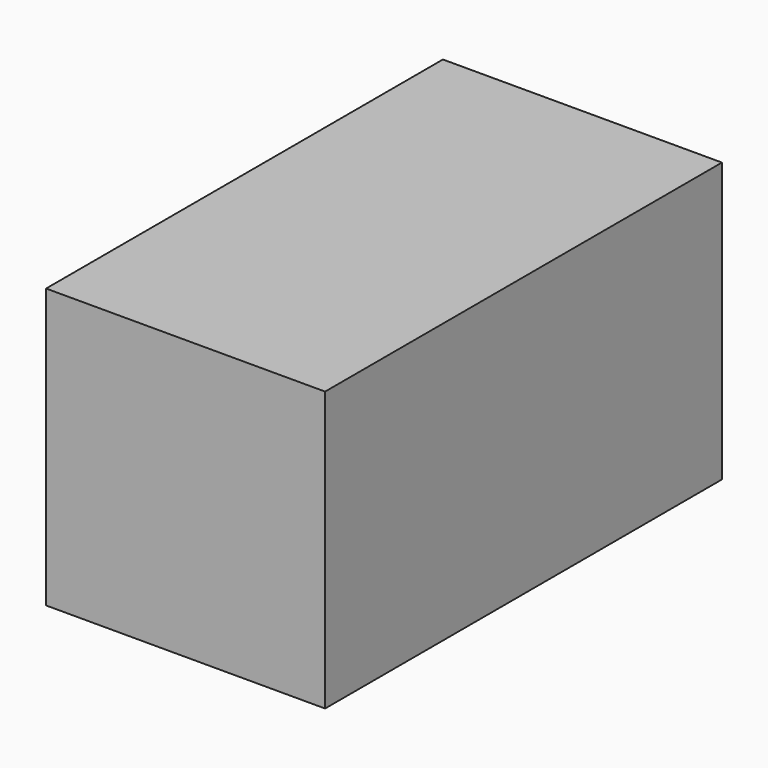
from build123d import *

# Parameters (mm, degrees)
SKETCH_W  = 90
SKETCH_H  = 160
PAD_DEPTH = 90


with BuildPart() as part:
    # Sketch → Pad (new body)
    with BuildSketch(Plane.XY):
        with Locations((-45, 80)):
            Rectangle(SKETCH_W, SKETCH_H)
    extrude(amount=PAD_DEPTH)


solid = part.part
